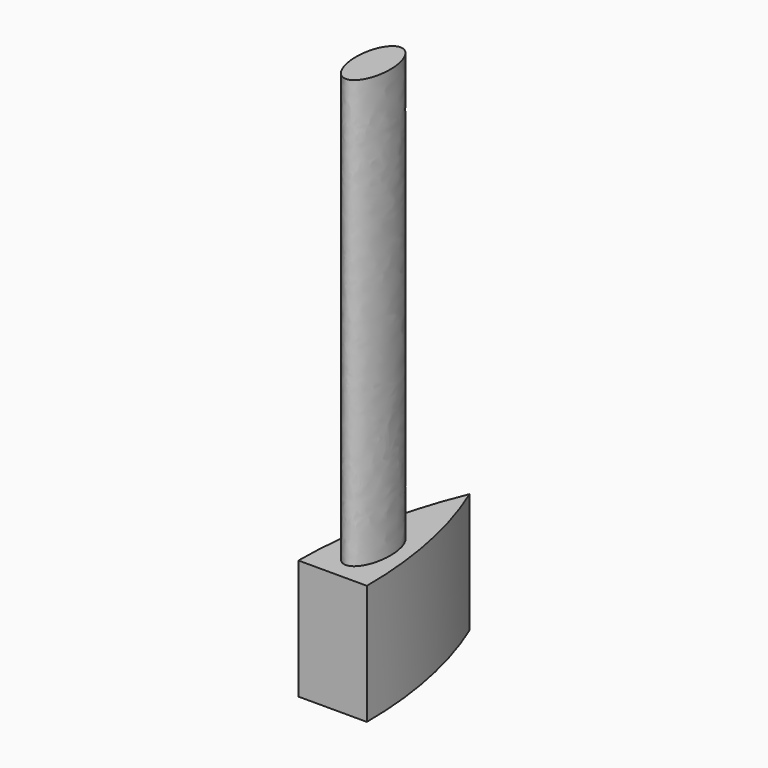
from build123d import *

# Parameters (mm, degrees)
F1_DEPTH = 7
F3_DEPTH = 25


with BuildPart() as f1:
    # F0 (on Top) → F1 (new body)
    with BuildSketch(Plane.XY):
        with BuildLine():
            ThreePointArc((2, 10), (0.504902, 5.09902), (0, 0))
            Line((0, 0), (4, 0))
            ThreePointArc((4, 0), (3.495098, 5.09902), (2, 10))
        make_face()
    extrude(amount=F1_DEPTH)

    # F2 (on face) → F3 (join)
    with BuildSketch(Plane.XY.offset(7)):
        with BuildLine():
            add(Edge.make_bspline(
                [(1.969794, 5), (0.237743, 5), (1.103768, 2), (1.969794, -1), (2.835819, 2), (3.701844, 5), (1.969794, 5)],
                knots=[0, 0, 0, 2.094395, 2.094395, 4.18879, 4.18879, 6.283185, 6.283185, 6.283185], degree=2, weights=[1, 0.5, 1, 0.5, 1, 0.5, 1]))
        make_face()
    extrude(amount=F3_DEPTH)


solid = f1.part
